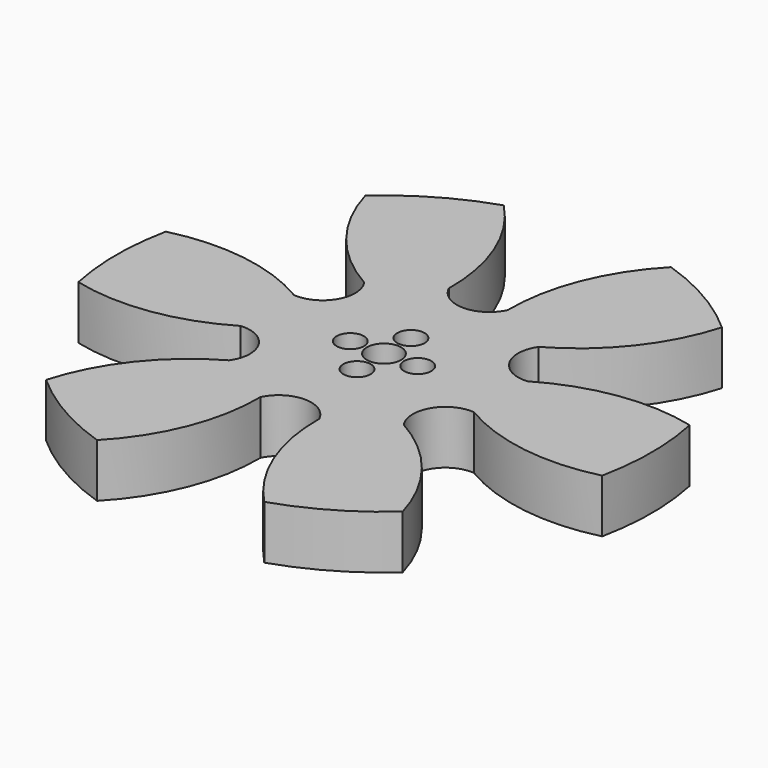
from build123d import *

# Parameters (mm, degrees)
F0_R     = 63.5
F0_R_2   = 2.0955
F0_R_3   = 4.064
F1_DEPTH = 12.7
F3_DEPTH = 12.7
F2_R     = 3.2385
F2_R_2   = 2.0955
F4_DEPTH = 9.525


with BuildPart() as f1:
    # F0 (on Top) → F1 (new body)
    with BuildSketch(Plane.XY):
        with Locations((-27.8360728791, 11.0515514389)):
            Circle(F0_R)
        with Locations((-27.8360728791, 3.0505514389)):
            Circle(F0_R_2, mode=Mode.SUBTRACT)
        with Locations((-35.8370728791, 11.0515514389)):
            Circle(F0_R_2, mode=Mode.SUBTRACT)
        with Locations((-27.8360728791, 11.0515514389)):
            Circle(F0_R_3, mode=Mode.SUBTRACT)
        with Locations((-19.8350728791, 11.0515514389)):
            Circle(F0_R_2, mode=Mode.SUBTRACT)
        with Locations((-27.8360728791, 19.0525514389)):
            Circle(F0_R_2, mode=Mode.SUBTRACT)
    extrude(amount=F1_DEPTH)

    # F2 (on face) → F3 (cut)
    with BuildSketch(Plane.XY.offset(12.7)):
        with BuildLine():
            ThreePointArc((-48.5403226608, 31.0707388843), (-62.0442946523, 42.5994874775), (-70.1548226491, 58.3946968551))
            ThreePointArc((-70.1548226491, 58.3946968551), (-82.8286860194, 42.8015514389), (-89.9958143896, 24.029091088))
            ThreePointArc((-89.9958143896, 24.029091088), (-72.2614978121, 24.9027724934), (-55.5253226608, 18.9723639934))
            ThreePointArc((-55.5253226608, 18.9723639934), (-48.2007234403, 22.8090879223), (-48.5403226608, 31.0707388843))
        make_face()
        with BuildLine():
            ThreePointArc((-20.8510728791, 38.9915514389), (-17.6188697193, 56.450708532), (-7.9950811385, 71.3722365042))
            ThreePointArc((-7.9950811385, 71.3722365042), (-27.8360728791, 74.5515514389), (-47.6770646196, 71.3722365042))
            ThreePointArc((-47.6770646196, 71.3722365042), (-38.0532760389, 56.450708532), (-34.8210728791, 38.9915514389))
            ThreePointArc((-34.8210728791, 38.9915514389), (-27.8360728791, 34.5666244058), (-20.8510728791, 38.9915514389))
        make_face()
        with BuildLine():
            ThreePointArc((34.3236686315, 24.029091088), (27.1565402612, 42.8015514389), (14.4826768909, 58.3946968551))
            ThreePointArc((14.4826768909, 58.3946968551), (6.3721488941, 42.5994874775), (-7.1318230973, 31.0707388843))
            ThreePointArc((-7.1318230973, 31.0707388843), (-7.4714223178, 22.8090879223), (-0.1468230973, 18.9723639934))
            ThreePointArc((-0.1468230973, 18.9723639934), (16.5893520539, 24.9027724934), (34.3236686315, 24.029091088))
        make_face()
        with BuildLine():
            ThreePointArc((14.4826768909, -36.2915939774), (27.1565402612, -20.6984485611), (34.3236686315, -1.9259882102))
            ThreePointArc((34.3236686315, -1.9259882102), (16.5893520539, -2.7996696157), (-0.1468230973, 3.1307388843))
            ThreePointArc((-0.1468230973, 3.1307388843), (-7.4714223178, -0.7059850446), (-7.1318230973, -8.9676360066))
            ThreePointArc((-7.1318230973, -8.9676360066), (6.3721488941, -20.4963845997), (14.4826768909, -36.2915939774))
        make_face()
        with BuildLine():
            ThreePointArc((-47.6770646196, -49.2691336265), (-27.8360728791, -52.4484485611), (-7.9950811385, -49.2691336265))
            ThreePointArc((-7.9950811385, -49.2691336265), (-17.6188697193, -34.3476056543), (-20.8510728791, -16.8884485611))
            ThreePointArc((-20.8510728791, -16.8884485611), (-27.8360728791, -12.4635215281), (-34.8210728791, -16.8884485611))
            ThreePointArc((-34.8210728791, -16.8884485611), (-38.0532760389, -34.3476056543), (-47.6770646196, -49.2691336265))
        make_face()
        with BuildLine():
            ThreePointArc((-55.5253226608, 3.1307388843), (-72.2614978121, -2.7996696157), (-89.9958143896, -1.9259882102))
            ThreePointArc((-89.9958143896, -1.9259882102), (-82.8286860194, -20.6984485611), (-70.1548226491, -36.2915939774))
            ThreePointArc((-70.1548226491, -36.2915939774), (-62.0442946523, -20.4963845997), (-48.5403226608, -8.9676360066))
            ThreePointArc((-48.5403226608, -8.9676360066), (-48.2007234403, -0.7059850446), (-55.5253226608, 3.1307388843))
        make_face()
    extrude(amount=-F3_DEPTH, mode=Mode.SUBTRACT)

    # F2 (on face) → F4 (cut)
    with BuildSketch(Plane.XY.offset(12.7)):
        with Locations((-27.8360728791, 19.0525514389)):
            Circle(F2_R)
        with Locations((-27.8360728791, 19.0525514389)):
            Circle(F2_R_2, mode=Mode.SUBTRACT)
        with Locations((-19.8350728791, 11.0515514389)):
            Circle(F2_R)
        with Locations((-19.8350728791, 11.0515514389)):
            Circle(F2_R_2, mode=Mode.SUBTRACT)
        with Locations((-27.8360728791, 3.0505514389)):
            Circle(F2_R)
        with Locations((-27.8360728791, 3.0505514389)):
            Circle(F2_R_2, mode=Mode.SUBTRACT)
        with Locations((-35.8370728791, 11.0515514389)):
            Circle(F2_R)
        with Locations((-35.8370728791, 11.0515514389)):
            Circle(F2_R_2, mode=Mode.SUBTRACT)
    extrude(amount=-F4_DEPTH, mode=Mode.SUBTRACT)


solid = f1.part
